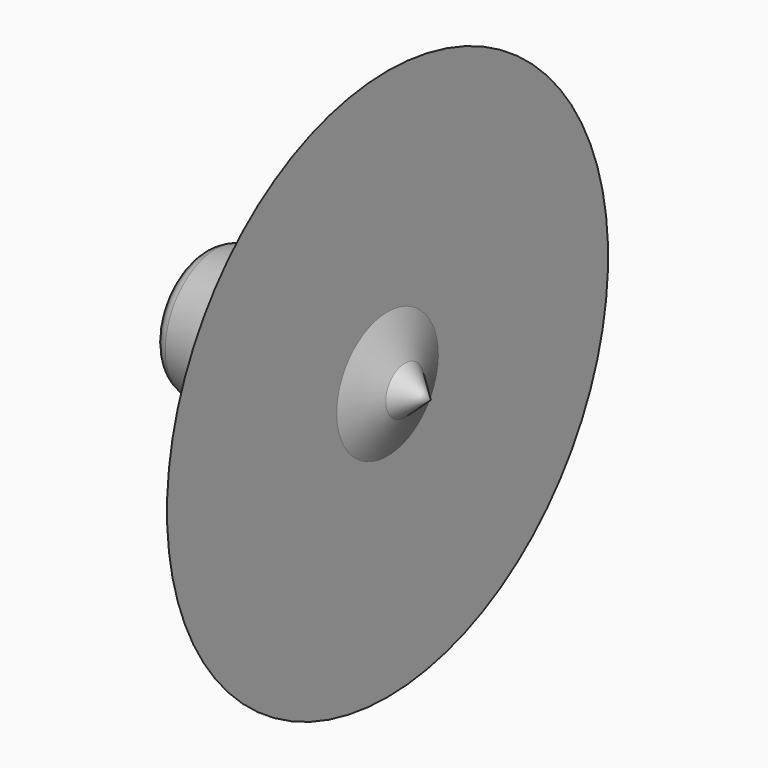
from build123d import *

# Parameters (mm, degrees)
F2_SIZE = 5.08
F3_R    = 5.08


with BuildPart() as f1:
    # F0 (on Front) → F1 (revolve)
    with BuildSketch(Plane.XZ):
        Polygon((-30.128215, 18.680663), (-49.528385, 12.636178), (-50.8, 0), (0, 0), (-9.342636, 8.602624), (-9.342636, 59.402624), align=None)
    revolve(axis=Axis((-25.4, 0, 0), (-1, 0, 0)))

    # F2
    f2_edges = [f1.edges().sort_by_distance(p)[0] for p in [
        (-9.342636, 0, -8.602624),
        (-4.671318, 0, 4.301312),
    ]]
    chamfer(f2_edges, length=F2_SIZE)

    # F3
    f3_edges = [f1.edges().sort_by_distance(p)[0] for p in [
        (-49.528385, 0, -12.636178),
        (-50.164193, 0, 6.318089),
    ]]
    fillet(f3_edges, radius=F3_R)


solid = f1.part
